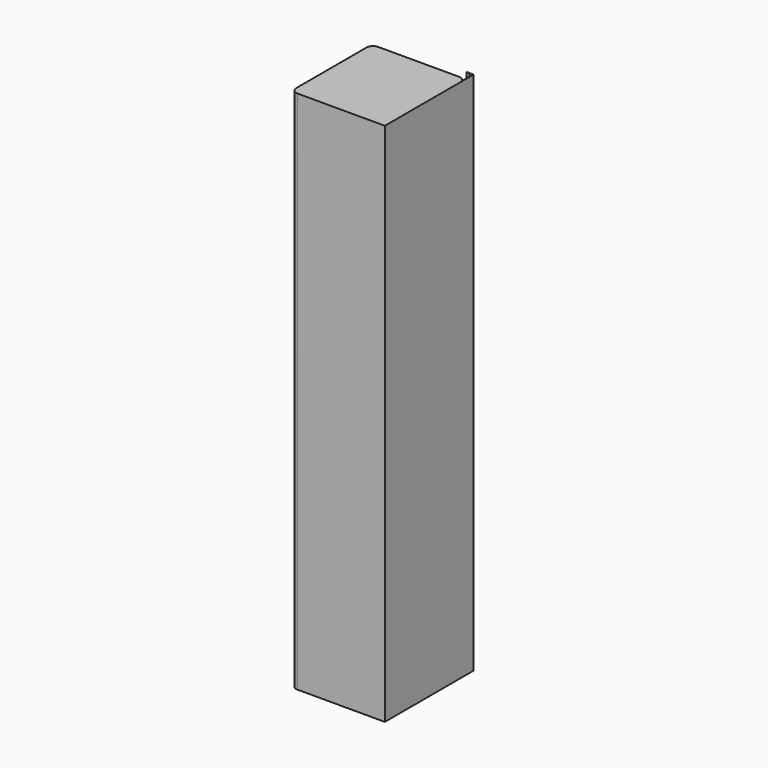
from build123d import *

# Parameters (mm, degrees)
F1_DEPTH = 203.2
F2_DEPTH = 203.2


with BuildPart() as f1:
    # F0 (on Top) → F1 (new body)
    with BuildSketch(Plane.XY):
        with BuildLine():
            ThreePointArc((-61.95249, -12.69548), (-61.208542, -14.491531), (-59.41249, -15.23548))
            Line((-59.41249, -15.23548), (-28.309421, -15.23548))
            ThreePointArc((-28.309421, -15.23548), (-26.513369, -14.491531), (-25.769421, -12.69548))
            Line((-25.769421, -12.69548), (-25.769421, 22.179387))
            ThreePointArc((-25.769421, 22.179387), (-26.699653, 23.388401), (-28.154716, 23.846481))
            Line((-28.154716, 23.846481), (-59.41249, 23.846481))
            ThreePointArc((-59.41249, 23.846481), (-61.208542, 23.102532), (-61.95249, 21.306481))
            Line((-61.95249, 21.306481), (-61.95249, -12.69548))
        make_face()
    extrude(amount=F1_DEPTH)

    # F0 (on Top) → F2 (join)
    with BuildSketch(Plane.XY):
        with BuildLine():
            ThreePointArc((-61.95249, -12.69548), (-61.208542, -14.491531), (-59.41249, -15.23548))
            Line((-59.41249, -15.23548), (-28.309421, -15.23548))
            ThreePointArc((-28.309421, -15.23548), (-26.513369, -14.491531), (-25.769421, -12.69548))
            Line((-25.769421, -12.69548), (-25.769421, 22.179387))
            ThreePointArc((-25.769421, 22.179387), (-26.699653, 23.388401), (-28.154716, 23.846481))
            Line((-28.154716, 23.846481), (-59.41249, 23.846481))
            ThreePointArc((-59.41249, 23.846481), (-61.208542, 23.102532), (-61.95249, 21.306481))
            Line((-61.95249, 21.306481), (-61.95249, -12.69548))
        make_face()
        with BuildLine():
            ThreePointArc((-25.769421, -12.69548), (-26.513369, -14.491531), (-28.309421, -15.23548))
            Line((-28.309421, -15.23548), (-25.614716, -15.23548))
            Line((-25.614716, -15.23548), (-25.614716, 21.306481))
            ThreePointArc((-25.614716, 21.306481), (-25.653691, 21.749736), (-25.769421, 22.179387))
            Line((-25.769421, 22.179387), (-25.769421, -12.69548))
        make_face()
        with BuildLine():
            ThreePointArc((-25.769421, 22.179387), (-25.653691, 21.749736), (-25.614716, 21.306481))
            Line((-25.614716, 21.306481), (-25.614716, 27.750116))
            Line((-25.614716, 27.750116), (-28.309421, 27.750116))
            ThreePointArc((-28.309421, 27.750116), (-26.513369, 27.006167), (-25.769421, 25.210116))
            Line((-25.769421, 25.210116), (-25.769421, 22.179387))
        make_face()
    extrude(amount=F2_DEPTH)


solid = f1.part
